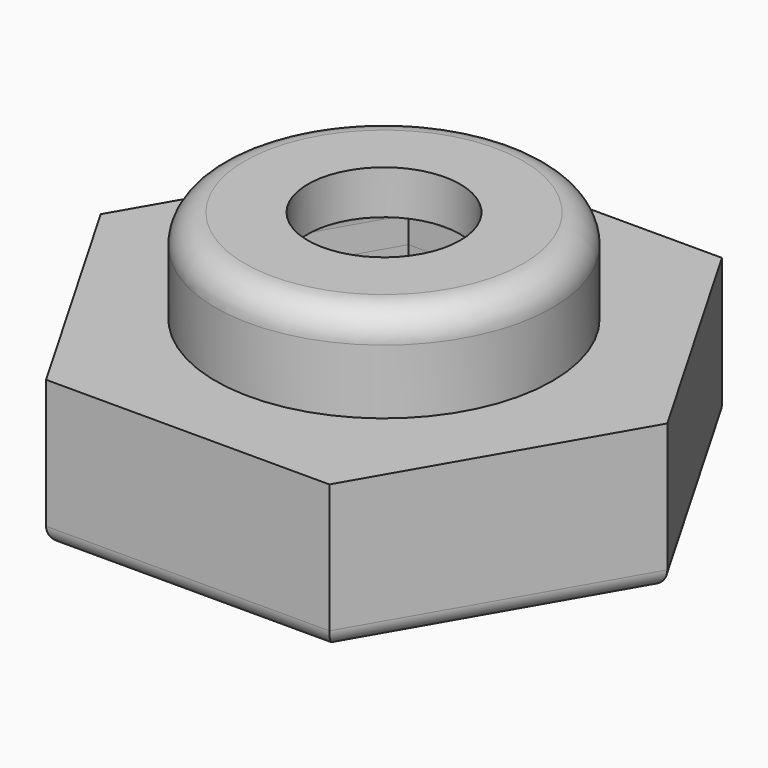
from build123d import *

# Parameters (mm, degrees)
F1_DEPTH = 5
F2_R     = 5.75
F3_DEPTH = 1.2
F4_R     = 5.75
F4_R_2   = 2.6
F5_DEPTH = 2
F7_R     = 1
F8_R     = 0.6
F9_DEPTH = 0.5
F10_R    = 0.8
F11_R    = 0.5


with BuildPart() as f1:
    # F0 (on Top) → F1 (new body)
    with BuildSketch(Plane.XY):
        Polygon((4.8353085045, -8.375), (9.6706170089, 0), (4.8353085045, 8.375), (-4.8353085045, 8.375), (-9.6706170089, 0), (-4.8353085045, -8.375), align=None)
        Polygon((2.1650635095, 3.75), (4.3301270189, 0), (2.1650635095, -3.75), (-2.1650635095, -3.75), (-4.3301270189, 0), (-2.1650635095, 3.75), align=None, mode=Mode.SUBTRACT)
    extrude(amount=F1_DEPTH)

    # F8
    f8_edges = [f1.edges().sort_by_distance(p)[0] for p in [
        (-7.252963, -4.1875, 0),
        (-7.252963, 4.1875, 0),
        (0, 8.375, 0),
        (7.252963, 4.1875, 0),
        (7.252963, -4.1875, 0),
        (0, -8.375, 0),
    ]]
    fillet(f8_edges, radius=F8_R)

    # F11
    f11_edges = [f1.edges().sort_by_distance(p)[0] for p in [
        (3.247595, -1.875, 0),
        (3.247595, 1.875, 0),
        (0, 3.75, 0),
        (-3.247595, 1.875, 0),
        (0, -3.75, 0),
        (-3.247595, -1.875, 0),
    ]]
    fillet(f11_edges, radius=F11_R)


with BuildPart() as f3:
    # F2 (on face) → F3 (new body)
    with BuildSketch(Plane.XY.offset(5)):
        Circle(F2_R)
        Polygon((-2.1650635095, 3.75), (2.1650635095, 3.75), (4.3301270189, 0), (2.1650635095, -3.75), (-2.1650635095, -3.75), (-4.3301270189, 0), align=None, mode=Mode.SUBTRACT)
    extrude(amount=F3_DEPTH)

    # F4 (on face) → F5 (join)
    with BuildSketch(Plane.XY.offset(6.2)):
        Circle(F4_R)
        Polygon((-2.1650635095, -3.75), (-4.3301270189, 0), (-2.1650635095, 3.75), (2.1650635095, 3.75), (4.3301270189, 0), (2.1650635095, -3.75), align=None, mode=Mode.SUBTRACT)
        Polygon((-2.1650635095, 3.75), (-4.3301270189, 0), (-2.1650635095, -3.75), (2.1650635095, -3.75), (4.3301270189, 0), (2.1650635095, 3.75), align=None)
        Circle(F4_R_2, mode=Mode.SUBTRACT)
    extrude(amount=F5_DEPTH)

    # F7
    f7_edges = [f3.edges().sort_by_distance(p)[0] for p in [
        (-5.75, 0, 8.2),
    ]]
    fillet(f7_edges, radius=F7_R)

    # F9 (cut): a face of the model
    f9_faces = [f3.faces().sort_by_distance(p)[0] for p in [
        (-3.14837959, 1.8177178038, 6.2),
    ]]
    extrude(f9_faces, amount=-F9_DEPTH, mode=Mode.SUBTRACT)

    # F10
    f10_edges = [f3.edges().sort_by_distance(p)[0] for p in [
        (3.247595, -1.875, 6.7),
        (3.247595, 1.875, 6.7),
        (0, -3.75, 6.7),
        (-3.247595, -1.875, 6.7),
        (-3.247595, 1.875, 6.7),
        (0, 3.75, 6.7),
    ]]
    fillet(f10_edges, radius=F10_R)


solid = Compound([f1.part, f3.part])
